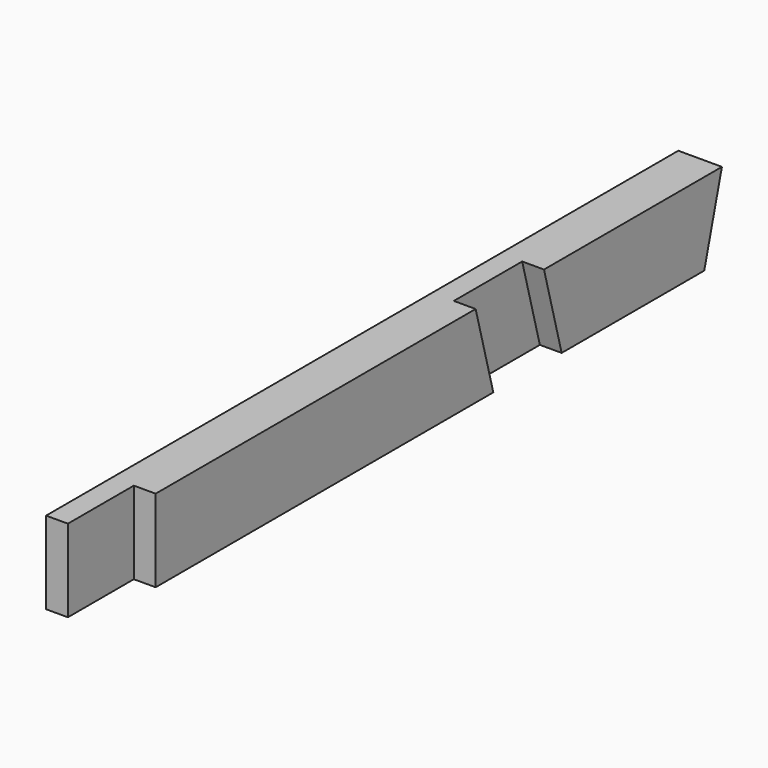
from build123d import *

# Parameters (mm, degrees)
F0_W     = 36
F0_H     = 68
F1_DEPTH = 652
F3_DEPTH = 36
F4_W     = 68
F4_H     = 68
F5_DEPTH = 18
F7_DEPTH = 18


with BuildPart() as f1:
    # F0 (on Front) → F1 (new body)
    with BuildSketch(Plane.XZ):
        Rectangle(F0_W, F0_H)
    extrude(amount=F1_DEPTH)

    # F2 (on face) → F3 (cut, through all)
    with BuildSketch(Plane.YZ.offset(18)):
        Polygon((0, -34), (0, 34), (-18.220545, -34), align=None)
    extrude(amount=-F3_DEPTH, mode=Mode.SUBTRACT)

    # F4 (on face) → F5 (cut)
    with BuildSketch(Plane.YZ.offset(18)):
        with Locations((-618, 0)):
            Rectangle(F4_W, F4_H)
    extrude(amount=-F5_DEPTH, mode=Mode.SUBTRACT)

    # F6 (on face) → F7 (cut)
    with BuildSketch(Plane.YZ.offset(18)):
        Polygon((-183.5, 34), (-254, 34), (-235.779455, -34), (-165.279455, -34), align=None)
    extrude(amount=-F7_DEPTH, mode=Mode.SUBTRACT)


solid = f1.part
